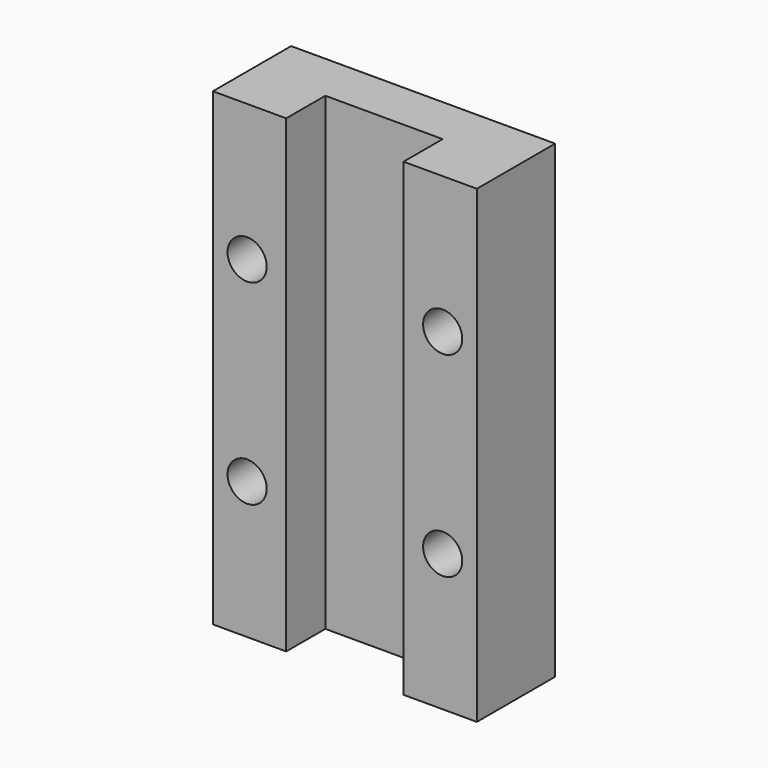
from build123d import *

# Parameters (mm, degrees)
F1_DEPTH = 48
F2_R     = 2
F3_DEPTH = 10


with BuildPart() as f1:
    # F0 (on Top) → F1 (new body)
    with BuildSketch(Plane.XY):
        Polygon((-6, 4), (6, 4), (6, -1), (13.5, -1), (13.5, 9), (-13.5, 9), (-13.5, -1), (-6, -1), align=None)
    extrude(amount=F1_DEPTH)

    # F2 (on face) → F3 (cut)
    with BuildSketch(Plane(origin=(0, 9, 0), x_dir=(-1, 0, 0), z_dir=(0, 1, 0))):
        with Locations((-10, 34)):
            Circle(F2_R)
        with Locations((10, 34)):
            Circle(F2_R)
        with Locations((10, 14)):
            Circle(F2_R)
        with Locations((-10, 14)):
            Circle(F2_R)
    extrude(amount=-F3_DEPTH, mode=Mode.SUBTRACT)


solid = f1.part
